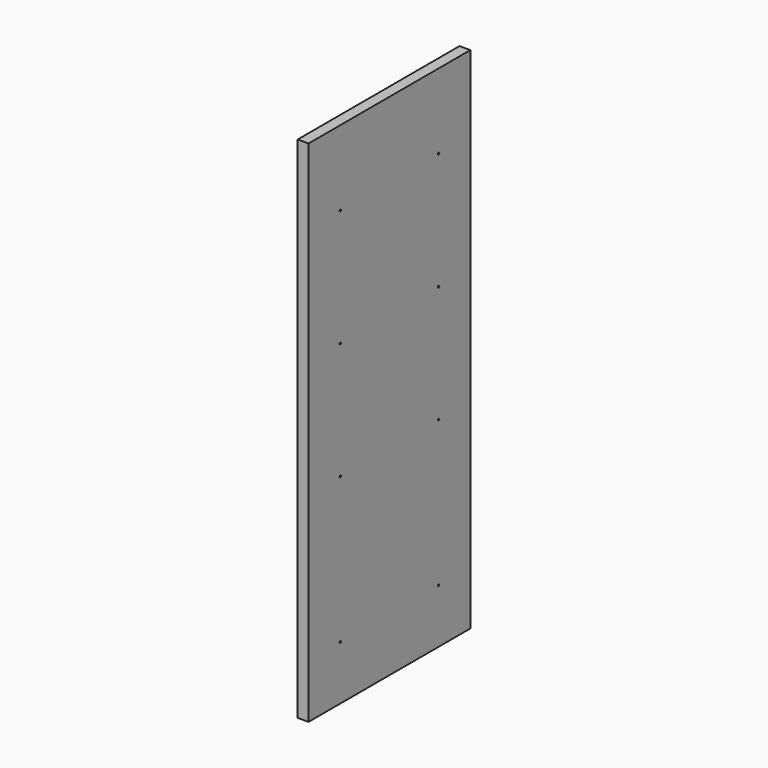
from build123d import *

# Parameters (mm, degrees)
F0_W     = 355.6
F0_H     = 895.35
F1_DEPTH = 19.05
F3_D     = 3.175
F3_DEPTH = 14.224
F3_TIP   = 0.9538662327


with BuildPart() as f1:
    # F0 (on Right) → F1 (new body)
    with BuildSketch(Plane.YZ):
        Rectangle(F0_W, F0_H)
    extrude(amount=F1_DEPTH)

    # F3
    with Locations(Plane.YZ.offset(19.05)):
        with Locations((-107.95, 315.595), (107.95, 315.595), (107.95, 109.855), (-107.95, 109.855), (-107.95, -95.885), (107.95, -95.885), (107.95, -352.425), (-107.95, -352.425)):
            Hole(F3_D / 2, depth=F3_DEPTH)
            with Locations((0, 0, -(F3_DEPTH + F3_TIP / 2))):  # 118° drill point
                Cone(0, F3_D / 2, F3_TIP, mode=Mode.SUBTRACT)


solid = f1.part
